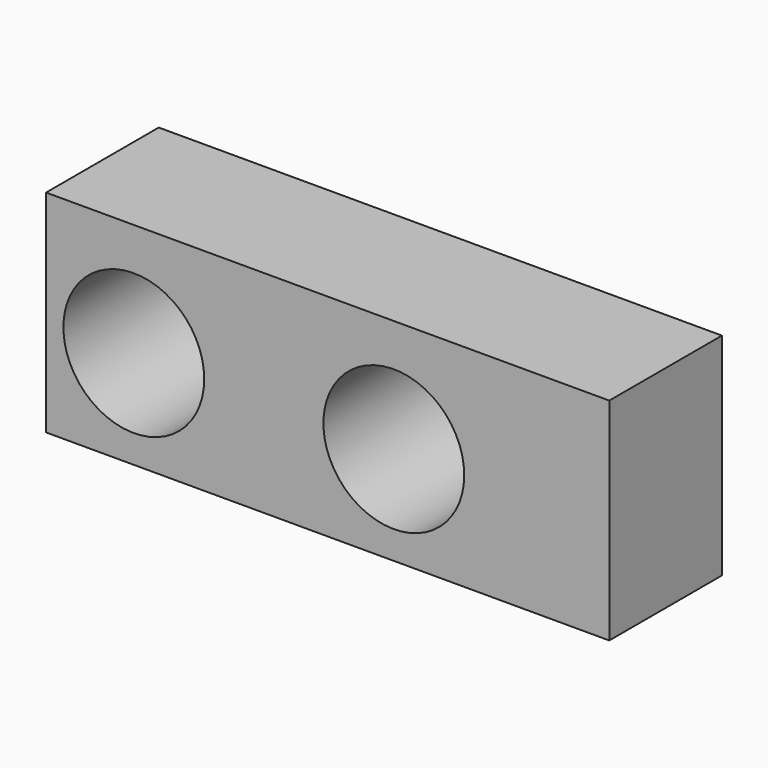
from build123d import *

# Parameters (mm, degrees)
F0_W     = 101.6
F0_H     = 38.1
F0_R     = 12.7
F1_DEPTH = 25.4


with BuildPart() as f1:
    # F0 (on Front) → F1 (new body)
    with BuildSketch(Plane.XZ):
        with Locations((-11.930157, 1.308589)):
            Rectangle(F0_W, F0_H)
        with Locations((-46.90408, 0)):
            Circle(F0_R, mode=Mode.SUBTRACT)
        Circle(F0_R, mode=Mode.SUBTRACT)
    extrude(amount=F1_DEPTH)


solid = f1.part
